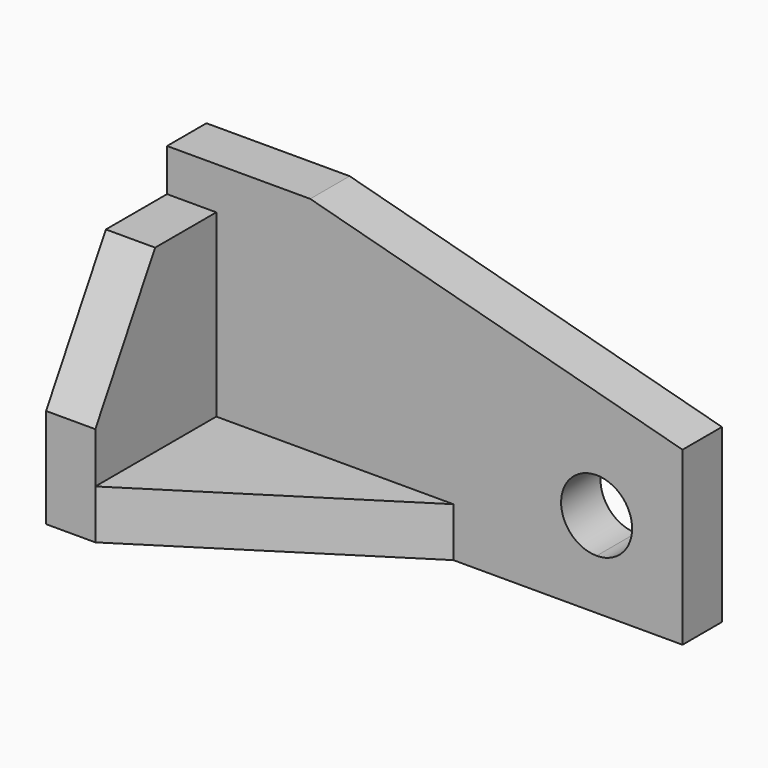
from build123d import *

# Parameters (mm, degrees)
F1_DEPTH = 60.198
F3_DEPTH = 10.923
F5_DEPTH = 10.922
F6_DEPTH = 10.922


with BuildPart() as f1:
    # F0 (on Top) → F1 (new body)
    with BuildSketch(Plane.XY):
        Polygon((-55.200306, 29.730059), (-55.200306, 18.808059), (-44.278306, 18.808059), (8.299694, 18.808059), (59.099694, 18.808059), (59.099694, 29.730059), align=None)
    extrude(amount=F1_DEPTH)

    # F2 (on face) → F3 (cut, through all)
    with BuildSketch(Plane.XZ.offset(-18.808059)):
        Polygon((59.099694, 60.198), (-23.450306, 60.198), (59.099694, 38.078794), align=None)
        with BuildLine():
            ThreePointArc((47.923694, 19.05), (34.481935, 24.617759), (40.049694, 11.176))
            ThreePointArc((40.049694, 11.176), (45.617453, 13.482241), (47.923694, 19.05))
        make_face()
    extrude(amount=-F3_DEPTH, mode=Mode.SUBTRACT)

    # F4 (on face) → F5 (join)
    with BuildSketch(Plane(origin=(-55.200306, 0, 0), x_dir=(0, -1, 0), z_dir=(-1, 0, 0))):
        Polygon((-18.808059, 50.8), (-18.808059, 0), (14.719941, 0), (14.719941, 22.098), (-1.851167, 50.8), align=None)
    extrude(amount=-F5_DEPTH)

    # F0 (on Top) → F6 (join)
    with BuildSketch(Plane.XY):
        Polygon((-44.278306, 18.808059), (-44.278306, -14.719941), (8.299694, 18.808059), align=None)
    extrude(amount=F6_DEPTH)


solid = f1.part
